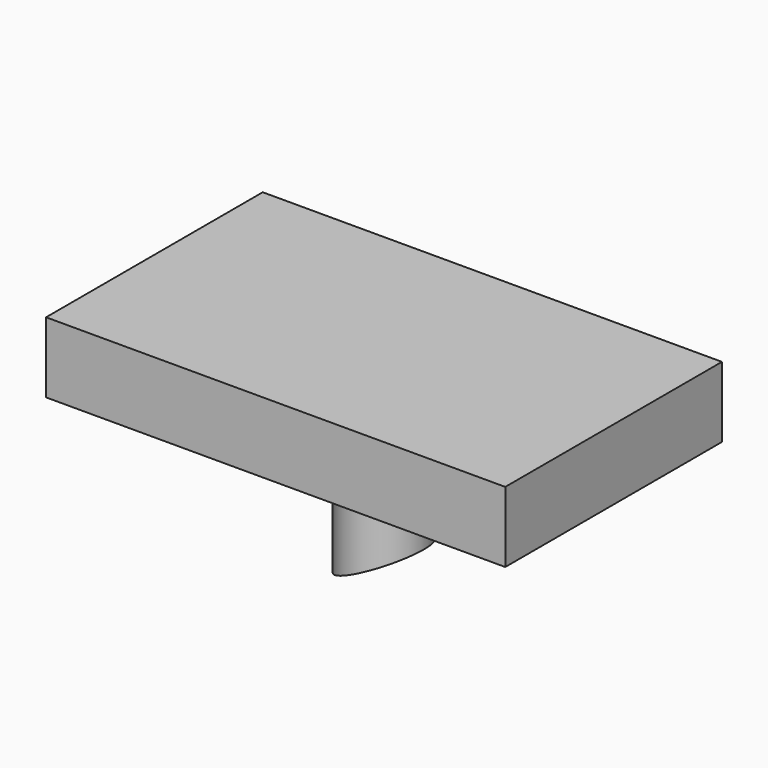
from build123d import *

# Parameters (mm, degrees)
F0_W     = 82.667836
F0_H     = 48.757524
F0_R     = 7.207753
F1_DEPTH = 12.7
F2_DEPTH = 25.4
F4_DEPTH = 12.7


with BuildPart() as f1:
    # F0 (on Top) → F1 (new body)
    with BuildSketch(Plane.XY):
        Rectangle(F0_W, F0_H)
        Circle(F0_R, mode=Mode.SUBTRACT)
        Circle(F0_R)
    extrude(amount=F1_DEPTH)


with BuildPart() as f2:
    # F0 (on Top) → F2 (new body)
    with BuildSketch(Plane.XY):
        Circle(F0_R)
    extrude(amount=-F2_DEPTH)

    # F3 (on Front) → F4 (cut, symmetric)
    with BuildSketch(Plane.XZ):
        Polygon((12.739278, -15.580411), (-12.006084, -27.311545), (12.739278, -27.311545), align=None)
    extrude(amount=F4_DEPTH, both=True, mode=Mode.SUBTRACT)


solid = Compound([f1.part, f2.part])
